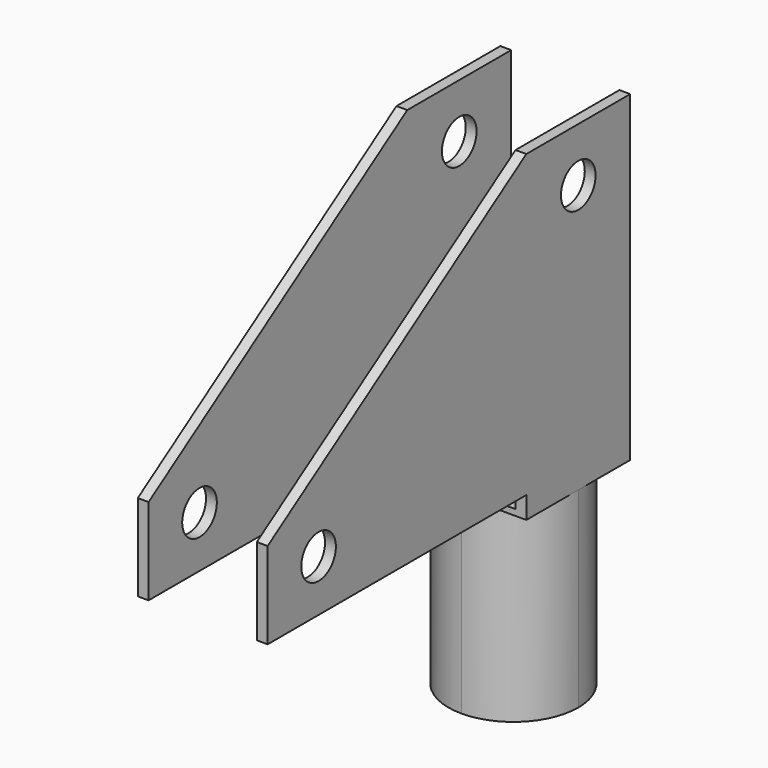
from build123d import *

# Parameters (mm, degrees)
F0_R          = 2
F1_DEPTH      = 6
F2_W          = 10
F2_H          = 33.9879472775
F3_DEPTH      = 6.001
F3_DEPTH_BACK = 35.8828483539
F5_DEPTH      = 17.7


with BuildPart() as f1:
    # F0 (on Right) → F1 (new body, symmetric)
    with BuildSketch(Plane.YZ):
        Polygon((-6, 4.9863578752), (-35.8818483539, -14.7544573992), (-35.8818483539, -22.7532479912), (-6, -22.7532479912), (-6, -42.48220101), (6, -42.48220101), (6, 4.9863578752), align=None)
        with Locations((-30, -18)):
            Circle(F0_R, mode=Mode.SUBTRACT)
        Circle(F0_R, mode=Mode.SUBTRACT)
    extrude(amount=F1_DEPTH, both=True)

    # F2 (on Front) → F3 (cut, two sides)
    with BuildSketch(Plane.XZ) as f3_sk:
        with Locations((0, -7.2282501862)):
            Rectangle(F2_W, F2_H)
    extrude(amount=-F3_DEPTH, mode=Mode.SUBTRACT)
    extrude(f3_sk.sketch, amount=F3_DEPTH_BACK, mode=Mode.SUBTRACT)

    # F4 (on face) → F5 (cut)
    with BuildSketch(Plane(origin=(0, 0, -42.48220101), x_dir=(1, 0, 0), z_dir=(0, 0, -1))):
        with BuildLine():
            Line((-6, -6), (0, -6))
            ThreePointArc((0, -6), (-4.2426406871, -4.2426406871), (-6, 0))
            Line((-6, 0), (-6, -6))
        make_face()
        with BuildLine():
            ThreePointArc((-6, 0), (-4.2426406871, 4.2426406871), (0, 6))
            Line((0, 6), (-6, 6))
            Line((-6, 6), (-6, 0))
        make_face()
        with BuildLine():
            ThreePointArc((0, 6), (4.2426406871, 4.2426406871), (6, 0))
            Line((6, 0), (6, 6))
            Line((6, 6), (0, 6))
        make_face()
        with BuildLine():
            Line((6, -6), (6, 0))
            ThreePointArc((6, 0), (4.2426406871, -4.2426406871), (0, -6))
            Line((0, -6), (6, -6))
        make_face()
    extrude(amount=-F5_DEPTH, mode=Mode.SUBTRACT)


solid = f1.part
